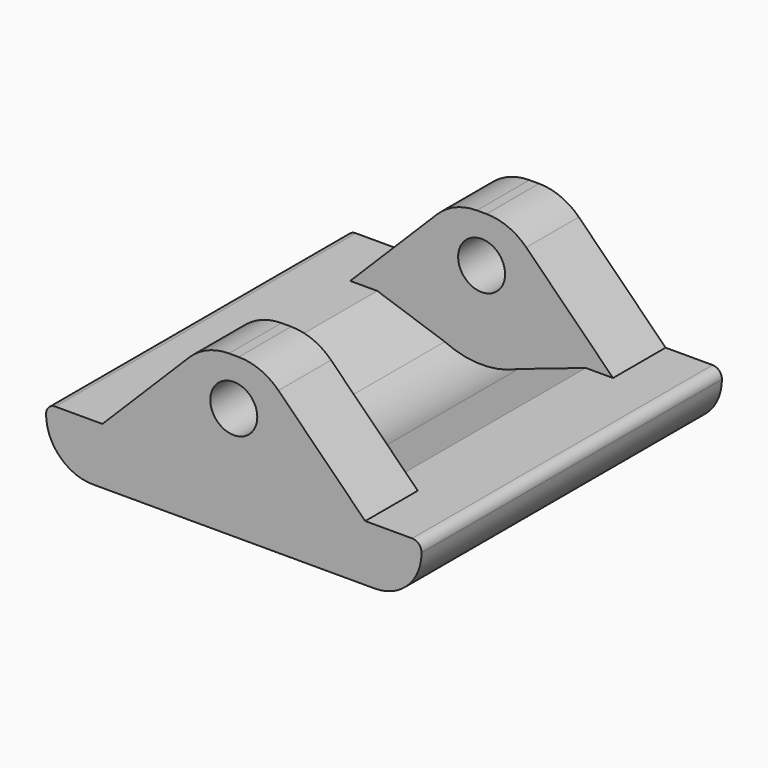
from build123d import *

# Parameters (mm, degrees)
CYLINDER220_R     = 1.25
CYLINDER220_DEPTH = 22
CYLINDER219_R     = 4.65
CYLINDER219_DEPTH = 13
BOX145_W          = 20
BOX145_H          = 20
BOX145_DEPTH      = 3
CHAMFER004_SIZE   = 2
BOX146_W          = 16
BOX146_H          = 3.5
BOX146_DEPTH      = 8.5
CHAMFER005_SIZE   = 6.5
BOX144_W          = 16
BOX144_H          = 3.5
BOX144_DEPTH      = 8.5
CHAMFER003_SIZE   = 6.5
FILLET061_R       = 3
FILLET060_R       = 2.49
FILLET059_R       = 0.5


with BuildPart() as cylinder479:
    # Cylinder220 → Cylinder220 (new body)
    with BuildSketch(Plane(origin=(320, 13, -68), x_dir=(1, 0, 0), z_dir=(0, -1, 0))):
        Circle(CYLINDER220_R)
    extrude(amount=CYLINDER220_DEPTH)


with BuildPart() as cylinder484:
    # Cylinder219 → Cylinder219 (new body)
    with BuildSketch(Plane(origin=(320, -4.5, -68), x_dir=(1, 0, 0), z_dir=(0, 1, 0))):
        Circle(CYLINDER219_R)
    extrude(amount=CYLINDER219_DEPTH)


with BuildPart() as chamfer004:
    # Box145 → Box145 (new body)
    with BuildSketch(Plane(origin=(310, -8, -74), x_dir=(1, 0, 0), z_dir=(0, 0, 1))):
        with Locations((10, 10)):
            Rectangle(BOX145_W, BOX145_H)
    extrude(amount=BOX145_DEPTH)

    # Cut154: cut Cylinder484
    add(cylinder484.part, mode=Mode.SUBTRACT)

    # Chamfer004
    chamfer004_edges = [chamfer004.edges().sort_by_distance(p)[0] for p in [
        (323.552816, 2, -71),
        (316.447184, 2, -71),
    ]]
    chamfer(chamfer004_edges, length=CHAMFER004_SIZE)


with BuildPart() as chamfer005:
    # Box146 → Box146 (new body)
    with BuildSketch(Plane(origin=(311, 8.5, -74), x_dir=(1, 0, 0), z_dir=(0, 0, 1))):
        with Locations((8, 1.75)):
            Rectangle(BOX146_W, BOX146_H)
    extrude(amount=BOX146_DEPTH)

    # Chamfer005
    chamfer005_edges = [chamfer005.edges().sort_by_distance(p)[0] for p in [
        (311, 10.25, -65.5),
        (327, 10.25, -65.5),
    ]]
    chamfer(chamfer005_edges, length=CHAMFER005_SIZE)


with BuildPart() as chamfer005_1:
    # Chamfer005 placement: moved
    add(chamfer005.part.moved(Location((1, 0, 0))))


with BuildPart() as supports_left_foot:
    # Box144 → Box144 (new body)
    with BuildSketch(Plane(origin=(311, 8.5, -74), x_dir=(1, 0, 0), z_dir=(0, 0, 1))):
        with Locations((8, 1.75)):
            Rectangle(BOX144_W, BOX144_H)
    extrude(amount=BOX144_DEPTH)

    # Chamfer003
    chamfer003_edges = [supports_left_foot.edges().sort_by_distance(p)[0] for p in [
        (311, 10.25, -65.5),
        (327, 10.25, -65.5),
    ]]
    chamfer(chamfer003_edges, length=CHAMFER003_SIZE)


with BuildPart() as supports_left_foot_1:
    # Chamfer003 placement: moved
    add(supports_left_foot.part.moved(Location((1, -16.5, 0))))

    # Fusion189: union Chamfer004, Chamfer005
    add(chamfer004.part)
    add(chamfer005_1.part)

    # Fillet061
    fillet061_edges = [supports_left_foot_1.edges().sort_by_distance(p)[0] for p in [
        (318.5, -6.25, -65.5),
        (321.5, -6.25, -65.5),
        (318.5, 10.25, -65.5),
        (321.5, 10.25, -65.5),
    ]]
    fillet(fillet061_edges, radius=FILLET061_R)

    # Fillet060
    fillet060_edges = [supports_left_foot_1.edges().sort_by_distance(p)[0] for p in [
        (330, 2, -74),
        (310, 2, -74),
    ]]
    fillet(fillet060_edges, radius=FILLET060_R)

    # Fillet059
    fillet059_edges = [supports_left_foot_1.edges().sort_by_distance(p)[0] for p in [
        (330, 2, -71),
        (310, 2, -71),
    ]]
    fillet(fillet059_edges, radius=FILLET059_R)

    # Cut153: cut Cylinder479
    add(cylinder479.part, mode=Mode.SUBTRACT)


with BuildPart() as supports_left_foot_2:
    # Cut153 placement: moved
    add(supports_left_foot_1.part.moved(Location((-77.3, -19, 16))))


solid = supports_left_foot_2.part
